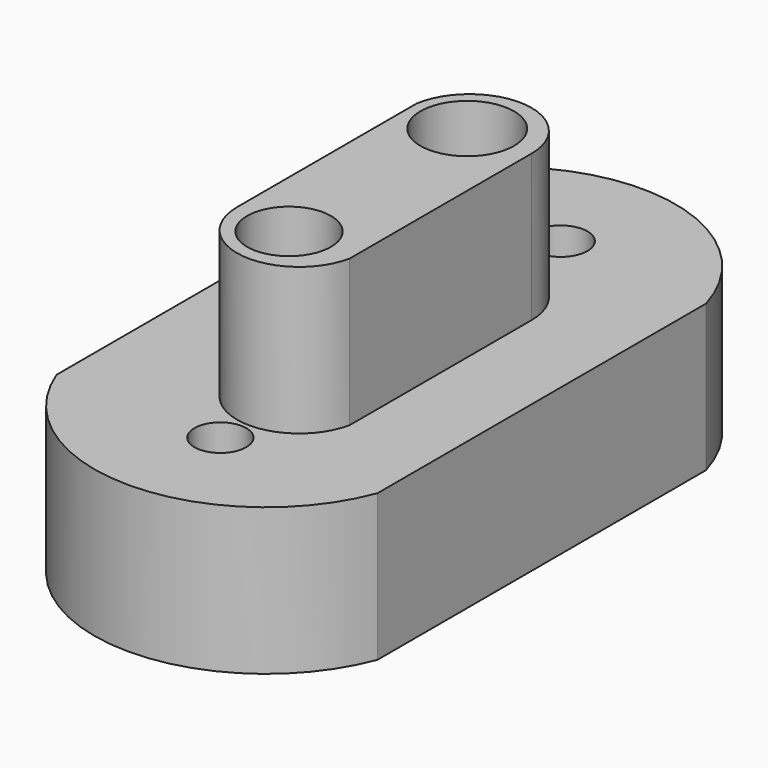
from build123d import *

# Parameters (mm, degrees)
F0_R     = 4.414326
F0_R_2   = 4.543778
F1_DEPTH = 25
F2_R     = 7.145289
F2_R_2   = 7.983337
F3_DEPTH = 25


with BuildPart() as f1:
    # F0 (on Top) → F1 (new body)
    with BuildSketch(Plane.XY):
        with BuildLine():
            ThreePointArc((26.334226, 22.624353), (-1.00732, 43.164425), (-28.348867, 22.624353))
            Line((-28.348867, 22.624353), (-28.348867, -47.375647))
            ThreePointArc((-28.348867, -47.375647), (-1.00732, -66.223224), (26.334226, -47.375647))
            Line((26.334226, -47.375647), (26.334226, 22.624353))
        make_face()
        with Locations((0, -47.919661)):
            Circle(F0_R, mode=Mode.SUBTRACT)
        with Locations((0, 24.607392)):
            Circle(F0_R_2, mode=Mode.SUBTRACT)
    extrude(amount=F1_DEPTH)

    # F2 (on face) → F3 (join)
    with BuildSketch(Plane.XY.offset(25)):
        with BuildLine():
            Line((-9.772932, 6.090378), (-9.772932, -32.151528))
            ThreePointArc((-9.772932, -32.151528), (-0.309017, -42.693714), (11.1893, -34.417719))
            Line((11.1893, -34.417719), (11.1893, 4.390738))
            ThreePointArc((11.1893, 4.390738), (1.491888, 14.906249), (-9.772932, 6.090378))
        make_face()
        with Locations((0, -33.284623)):
            Circle(F2_R, mode=Mode.SUBTRACT)
        with Locations((0, 4.674011)):
            Circle(F2_R_2, mode=Mode.SUBTRACT)
    extrude(amount=F3_DEPTH)


solid = f1.part
